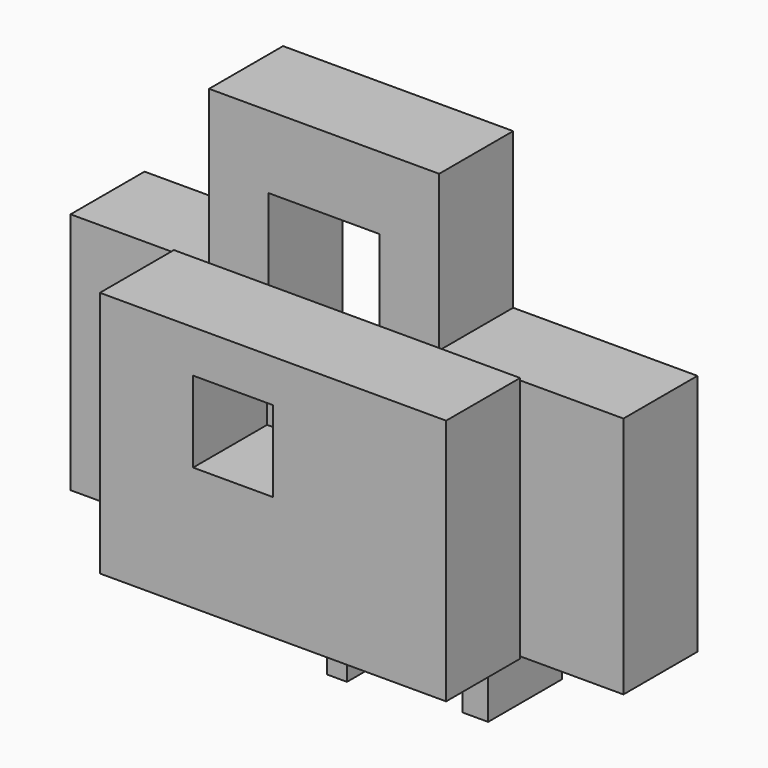
from build123d import *

# Parameters (mm, degrees)
F0_W     = 5.5582858622
F0_H     = 21.6480456293
F0_W_2   = 7.0209950209
F0_H_2   = 43.2960875332
F0_H_3   = 18.7226310372
F1_DEPTH = 25.4
F3_W     = 95.0758680701
F3_H     = 67.8695440292
F3_W_2   = 21.9405852258
F3_H_2   = 22.2331248224
F4_DEPTH = 25.4


with BuildPart() as f1:
    # F0 (on Front) → F1 (new body)
    with BuildSketch(Plane.XZ):
        Polygon((-37.8840751946, 33.3496890962), (-75.9144276381, 33.3496890962), (-75.9144276381, -33.3496890962), (-5.5582858622, -33.3496890962), (-5.5582858622, -11.7016434669), (0, -11.7016434669), (0, -33.3496890962), (31.740706414, -33.3496890962), (31.740706414, 9.946398437), (38.7617014349, 9.946398437), (38.7617014349, -33.3496890962), (75.9144276381, -33.3496890962), (75.9144276381, 33.3496890962), (25.3048082814, 33.3496890962), (25.3048082814, -9.3613192439), (-37.8840751946, -9.3613192439), align=None)
        Polygon((-37.8840751946, 76.0606974363), (-37.8840751946, 33.3496890962), (-21.5017739683, 33.3496890962), (-21.5017739683, 56.1678977683), (8.9225070551, 56.1678977683), (8.9225070551, 33.3496890962), (25.3048082814, 33.3496890962), (25.3048082814, 76.0606974363), align=None)
        Polygon((-21.5017739683, 33.3496890962), (-37.8840751946, 33.3496890962), (-37.8840751946, -9.3613192439), (25.3048082814, -9.3613192439), (25.3048082814, 33.3496890962), (8.9225070551, 33.3496890962), (8.9225070551, 10.5314804241), (-21.5017739683, 10.5314804241), align=None)
        with Locations((-2.7791429311, -22.5256662816)):
            Rectangle(F0_W, F0_H)
        with Locations((-2.7791429311, -44.1737119108)):
            Rectangle(F0_W, F0_H)
        with Locations((35.2512039244, -11.7016453296)):
            Rectangle(F0_W_2, F0_H_2)
        with Locations((35.2512039244, -42.7110046148)):
            Rectangle(F0_W_2, F0_H_3)
    extrude(amount=F1_DEPTH)

    # F3 (on face) → F4 (join)
    with BuildSketch(Plane.XZ.offset(25.4)):
        Rectangle(F3_W, F3_H)
        with Locations((-10.9702926129, 11.1165624112)):
            Rectangle(F3_W_2, F3_H_2, mode=Mode.SUBTRACT)
    extrude(amount=F4_DEPTH)


solid = f1.part
